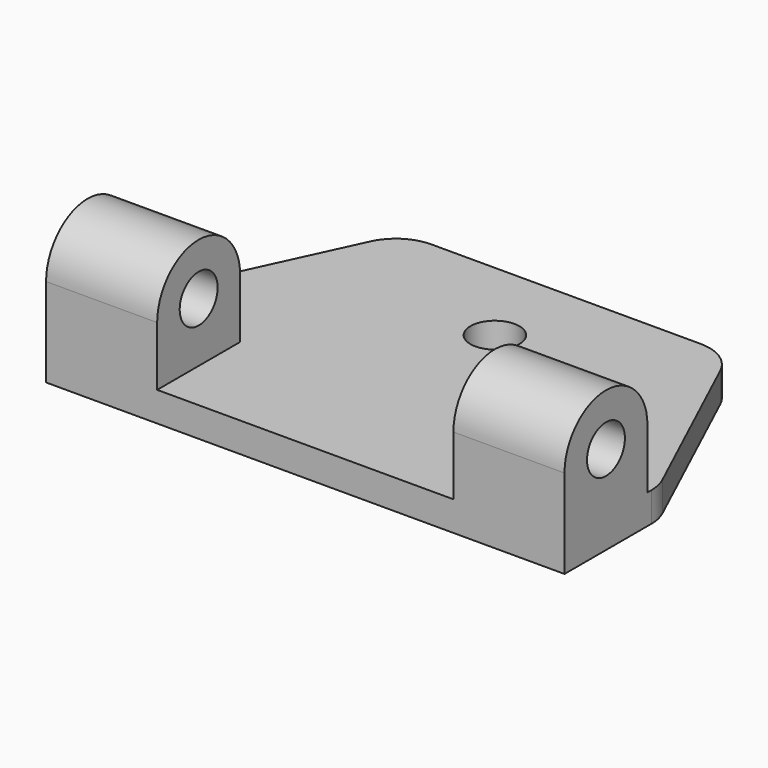
from build123d import *

# Parameters (mm, degrees)
PAD_DEPTH       = 2
PAD001_DEPTH    = 35
SKETCH002_R     = 1.6
POCKET_DEPTH    = 35.001
SKETCH003_W     = 20
SKETCH003_H     = 10
POCKET001_DEPTH = 22.001
FILLET_R        = 3
SKETCH004_R     = 1.65
POCKET002_DEPTH = 5


with BuildPart() as part:
    # Sketch → Pad (new body)
    with BuildSketch(Plane.XY):
        Polygon((-17.5, -15), (17.5, -15), (17.5, -7), (11, 7), (-11, 7), (-17.5, -7), align=None)
    extrude(amount=PAD_DEPTH)

    # Sketch001 (on Face6 of Pad) → Pad001 (join)
    with BuildSketch(Plane(origin=(-17.5, 0, 0), x_dir=(0, -1, 0), z_dir=(-1, 0, 0))):
        with BuildLine():
            Line((15, 2), (15, 6))
            ThreePointArc((15, 6), (11.5, 9.5), (8, 6))
            Line((8, 2), (8, 6))
            Line((8, 2), (15, 2))
        make_face()
    extrude(amount=-PAD001_DEPTH)

    # Sketch002 (on Face8 of Pad001) → Pocket (cut, through all)
    with BuildSketch(Plane(origin=(-17.5, 0, 0), x_dir=(0, -1, 0), z_dir=(-1, 0, 0))):
        with Locations((11.5, 6)):
            Circle(SKETCH002_R)
    extrude(amount=-POCKET_DEPTH, mode=Mode.SUBTRACT)

    # Sketch003 (on Face1 of Pocket) → Pocket001 (cut, through all)
    with BuildSketch(Plane.XZ.offset(15)):
        with Locations((0, 7)):
            Rectangle(SKETCH003_W, SKETCH003_H)
    extrude(amount=-POCKET001_DEPTH, mode=Mode.SUBTRACT)

    # Fillet
    fillet_edges = [part.edges().sort_by_distance(p)[0] for p in [
        (-11, 7, 1),
        (-17.5, -7, 1),
        (11, 7, 1),
        (17.5, -7, 1),
    ]]
    fillet(fillet_edges, radius=FILLET_R)

    # Sketch004 (on Face2 of Fillet) → Pocket002 (cut)
    with BuildSketch(Plane(origin=(0, 0, 0), x_dir=(1, 0, 0), z_dir=(0, 0, -1))):
        with Locations((0, -1)):
            Circle(SKETCH004_R)
    extrude(amount=-POCKET002_DEPTH, mode=Mode.SUBTRACT)


solid = part.part
